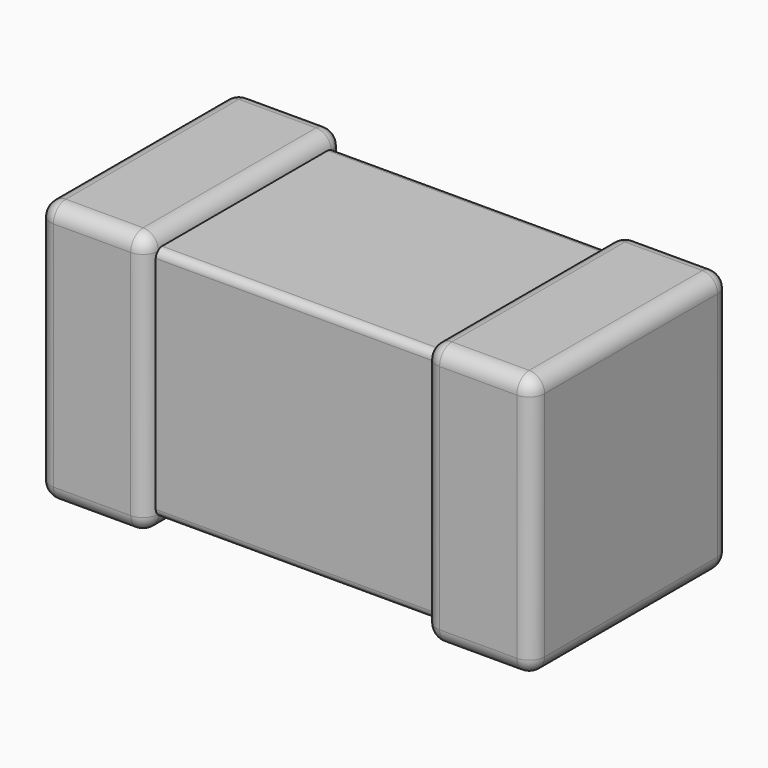
from build123d import *

# Parameters (mm, degrees)
SKETCH001_W  = 0.35
SKETCH001_H  = 0.85
PAD001_DEPTH = 0.4
FILLET_R     = 0.05
SKETCH_W     = 1.44
SKETCH_H     = 0.72
PAD_DEPTH    = 0.765
FILLET002_R  = 0.025
SKETCH002_W  = 0.35
SKETCH002_H  = 0.85
PAD002_DEPTH = 0.4
FILLET001_R  = 0.05


with BuildPart() as body001:
    # Sketch001 → Pad001 (new body, symmetric)
    with BuildSketch(Plane.XZ):
        with Locations((-0.625, 0.425)):
            Rectangle(SKETCH001_W, SKETCH001_H)
    extrude(amount=PAD001_DEPTH, both=True)

    # Fillet
    fillet_edges = [body001.edges().sort_by_distance(p)[0] for p in [
        (-0.8, 0, 0.85),
        (-0.8, 0.4, 0.425),
        (-0.625, 0.4, 0.85),
        (-0.45, 0.4, 0.425),
        (-0.625, 0.4, 0),
        (-0.45, 0, 0),
        (-0.8, 0, 0),
        (-0.8, -0.4, 0.425),
        (-0.625, -0.4, 0),
        (-0.45, -0.4, 0.425),
        (-0.625, -0.4, 0.85),
        (-0.45, 0, 0.85),
    ]]
    fillet(fillet_edges, radius=FILLET_R)


with BuildPart() as body:
    # Sketch → Pad (new body)
    with BuildSketch(Plane.XY.offset(0.0425)):
        Rectangle(SKETCH_W, SKETCH_H)
    extrude(amount=PAD_DEPTH)

    # Fillet002
    fillet002_edges = [body.edges().sort_by_distance(p)[0] for p in [
        (0, -0.36, 0.8075),
        (0, 0.36, 0.8075),
        (0, -0.36, 0.0425),
        (0, 0.36, 0.0425),
    ]]
    fillet(fillet002_edges, radius=FILLET002_R)


with BuildPart() as fusion:
    # Sketch002 → Pad002 (new body, symmetric)
    with BuildSketch(Plane.XZ):
        with Locations((0.625, 0.425)):
            Rectangle(SKETCH002_W, SKETCH002_H)
    extrude(amount=PAD002_DEPTH, both=True)

    # Fillet001
    fillet001_edges = [fusion.edges().sort_by_distance(p)[0] for p in [
        (0.8, 0, 0),
        (0.8, 0.4, 0.425),
        (0.8, -0.4, 0.425),
        (0.8, 0, 0.85),
        (0.625, -0.4, 0.85),
        (0.625, 0.4, 0.85),
        (0.45, 0, 0.85),
        (0.45, -0.4, 0.425),
        (0.625, -0.4, 0),
        (0.45, 0, 0),
        (0.45, 0.4, 0.425),
        (0.625, 0.4, 0),
    ]]
    fillet(fillet001_edges, radius=FILLET001_R)

    # Fusion: union Body001, Body
    add(body001.part)
    add(body.part)


solid = fusion.part
